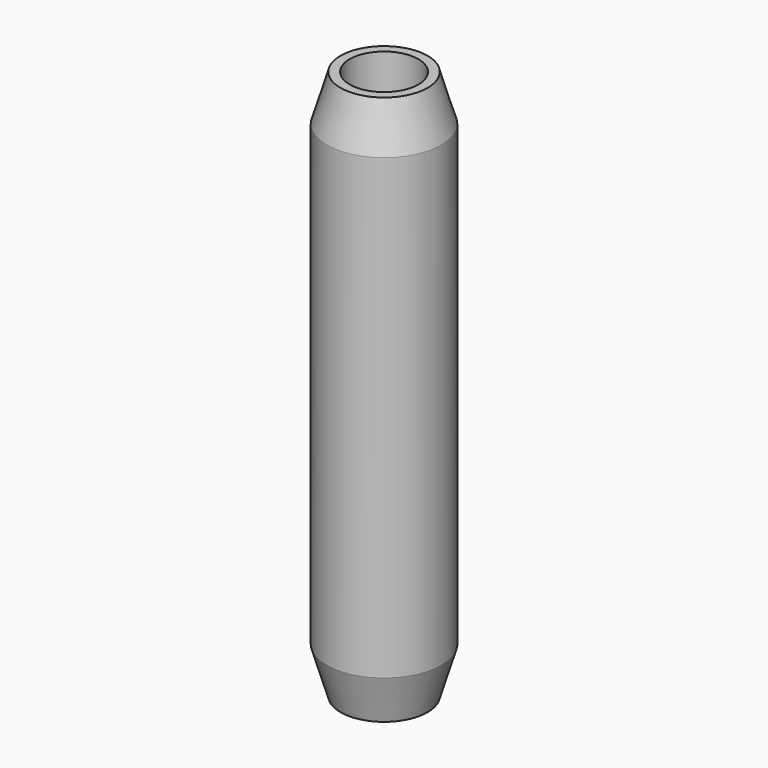
from build123d import *

# Parameters (mm, degrees)
F0_R     = 1.25
F1_DEPTH = 6
F2_R     = 0.75
F3_DEPTH = 12
F4_SIZE2 = 0.3
F4_SIZE  = 1


with BuildPart() as f1:
    # F0 (on Top) → F1 (new body, symmetric)
    with BuildSketch(Plane.XY):
        Circle(F0_R)
    extrude(amount=F1_DEPTH, both=True)

    # F2 (on face) → F3 (cut, through all)
    with BuildSketch(Plane(origin=(0, 0, -6), x_dir=(1, 0, 0), z_dir=(0, 0, -1))):
        Circle(F2_R)
    extrude(amount=-F3_DEPTH, mode=Mode.SUBTRACT)

    # F4
    f4_edges = [f1.edges().sort_by_distance(p)[0] for p in [
        (-1.25, 0, -6),
        (-1.25, 0, 6),
    ]]
    chamfer(f4_edges, length=F4_SIZE, length2=F4_SIZE2)


solid = f1.part
